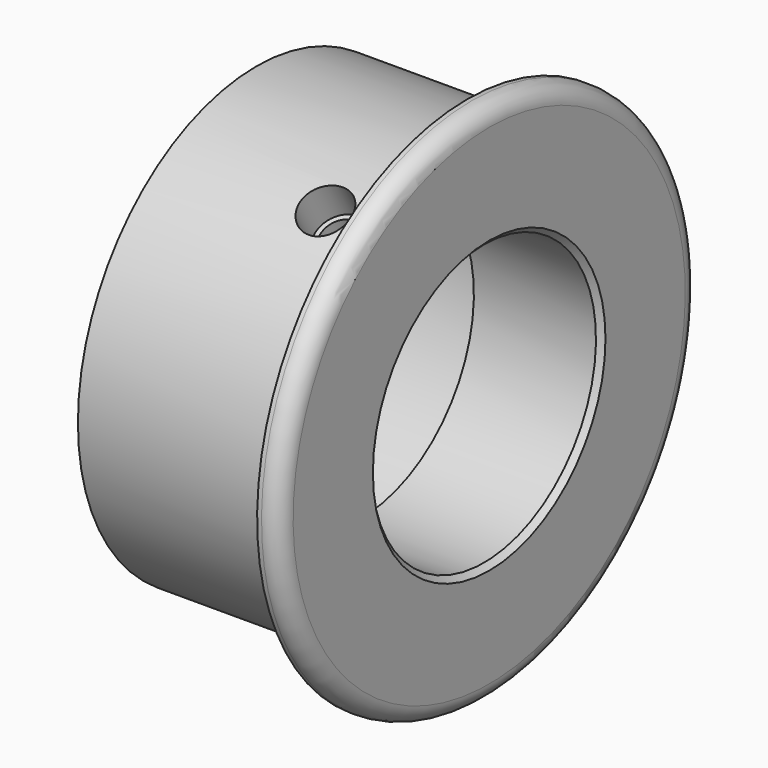
from build123d import *

# Parameters (mm, degrees)
SKETCH144_R     = 2.25
HOLE050_DEPTH   = 40.84516
SKETCH145_R     = 2.8
POCKET198_DEPTH = 4.5
CHAMFER002_SIZE = 0.6


with BuildPart() as part:
    # Sketch143 → Revolution004 (revolve)
    with BuildSketch(Plane.XZ):
        with BuildLine():
            Line((0, 25.4), (0, 29.9))
            Line((0, 29.9), (0.5, 29.9))
            ThreePointArc((2.5, 27.9), (1.914214, 29.314214), (0.5, 29.9))
            Line((2.5, 27.9), (2.5, 15.95))
            Line((2.5, 15.95), (-12, 15.95))
            Line((-12, 15.95), (-12, 22.4))
            Line((-12, 22.4), (-24, 22.4))
            Line((-24, 22.4), (-24, 25.4))
            Line((-24, 25.4), (0, 25.4))
        make_face()
    revolve(axis=Axis((0, 0, 0), (1, 0, 0)))

    # Sketch144 (on DatumPlane) → Hole050 (cut, through all)
    with BuildSketch(Plane(origin=(-6, 0, 0), x_dir=(1, 0, 0), z_dir=(0, 0.5, -0.866025))):
        Circle(SKETCH144_R)
    extrude(amount=-HOLE050_DEPTH, mode=Mode.SUBTRACT)

    # Sketch145 (on DatumPlane) → Pocket198 (cut)
    with BuildSketch(Plane(origin=(-6, -12.7, 21.997045), x_dir=(-1, 0, 0), z_dir=(0, -0.5, 0.866025))):
        Circle(SKETCH145_R)
    extrude(amount=-POCKET198_DEPTH, mode=Mode.SUBTRACT)

    # Chamfer002
    chamfer002_edges = [part.edges().sort_by_distance(p)[0] for p in [
        (2.5, 0, -15.95),
    ]]
    chamfer(chamfer002_edges, length=CHAMFER002_SIZE)


with BuildPart() as part_1:
    # Body022029 placement: moved
    add(part.part.moved(Location((194, 0, 835))))


solid = part_1.part
